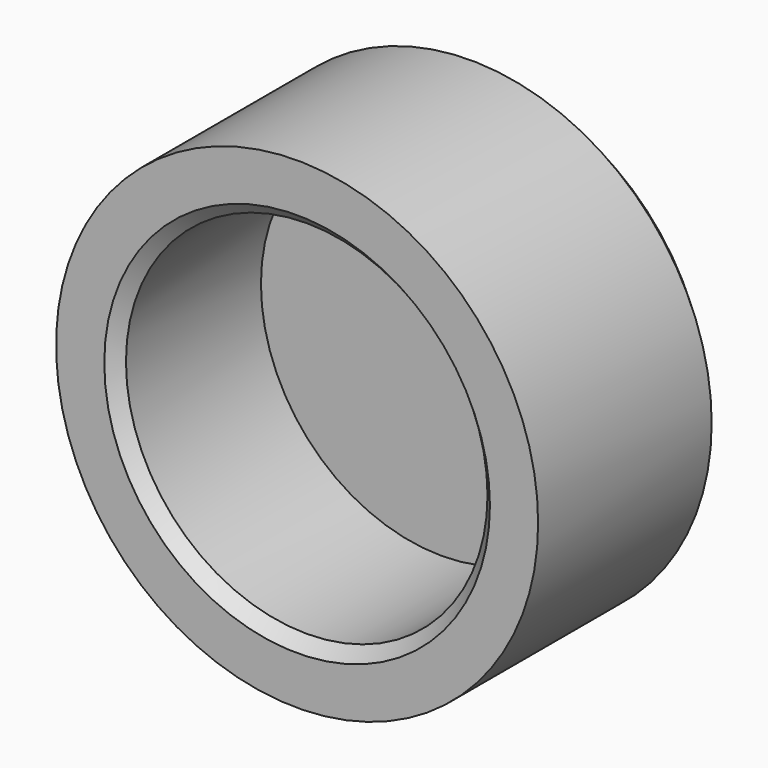
from build123d import *

# Parameters (mm, degrees)
SKETCH_R        = 2
PAD_DEPTH       = 2
SKETCH001_R     = 1.5
POCKET_DEPTH    = 1.5
CHAMFER_SIZE    = 0.2
CHAMFER001_SIZE = 0.1


with BuildPart() as part:
    # Sketch → Pad (new body)
    with BuildSketch(Plane.XZ):
        Circle(SKETCH_R)
    extrude(amount=-PAD_DEPTH)

    # Sketch001 → Pocket (cut)
    with BuildSketch(Plane.XZ):
        Circle(SKETCH001_R)
    extrude(amount=-POCKET_DEPTH, mode=Mode.SUBTRACT)

    # Chamfer
    chamfer_edges = [part.edges().sort_by_distance(p)[0] for p in [
        (-2, 2, 0),
    ]]
    chamfer(chamfer_edges, length=CHAMFER_SIZE)

    # Chamfer001
    chamfer001_edges = [part.edges().sort_by_distance(p)[0] for p in [
        (-1.5, 0, 0),
    ]]
    chamfer(chamfer001_edges, length=CHAMFER001_SIZE)


solid = part.part
